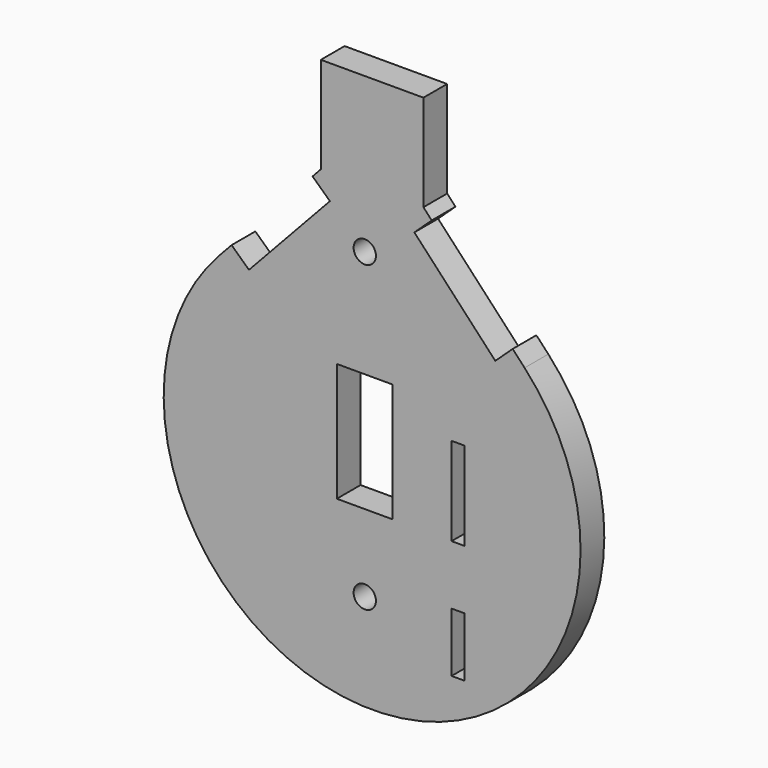
from build123d import *

# Parameters (mm, degrees)
F0_R     = 2.3876
F0_W     = 11.9644477963
F0_H     = 25.4
F0_W_2   = 2.794
F0_H_2   = 12.7
F0_H_3   = 18.8976
F1_DEPTH = 3.175
F3_W     = 6.35
F3_H     = 25.4
F4_DEPTH = 5.08
F6_W     = 6.35
F6_H     = 25.4
F7_DEPTH = 5.08


with BuildPart() as f1:
    # F0 (on Front) → F1 (new body, symmetric)
    with BuildSketch(Plane.XZ):
        with BuildLine():
            Line((-9.4017383467, 23.2221963037), (-31.0533456504, 0))
            ThreePointArc((-31.0533456504, 0), (1.5738401562, -75.0292582617), (34.2010259628, 0))
            Line((34.2010259628, 0), (12.5494186591, 23.2221963037))
            Line((12.5494186591, 23.2221963037), (12.5494186591, 43.8596963037))
            Line((12.5494186591, 43.8596963037), (-9.4017383467, 43.8596963037))
            Line((-9.4017383467, 43.8596963037), (-9.4017383467, 23.2221963037))
        make_face()
        with Locations((0, -54.2525947094)):
            Circle(F0_R, mode=Mode.SUBTRACT)
        with Locations((0, -25.0313151628)):
            Rectangle(F0_W, F0_H, mode=Mode.SUBTRACT)
        with Locations((19.9750838982, -56.7813151628)):
            Rectangle(F0_W_2, F0_H_2, mode=Mode.SUBTRACT)
        with Locations((19.9750838982, -28.2825151628)):
            Rectangle(F0_W_2, F0_H_3, mode=Mode.SUBTRACT)
        with Locations((0, 10.739565827)):
            Circle(F0_R, mode=Mode.SUBTRACT)
    extrude(amount=F1_DEPTH, both=True)

    # F3 (on offset) → F4 (cut)
    with BuildSketch(Plane(origin=(-16.6122141895, 0, 15.4886787354), x_dir=(0, -1, 0), z_dir=(-0.7314077576, 0, 0.6819403875))):
        with Locations((0, -4.733831039)):
            Rectangle(F3_W, F3_H)
    extrude(amount=-F4_DEPTH, mode=Mode.SUBTRACT)

    # F6 (on offset) → F7 (cut)
    with BuildSketch(Plane(origin=(18.2960887755, 0, 17.0586676721), x_dir=(0, 1, 0), z_dir=(0.7314077576, 0, 0.6819403875))):
        with Locations((0, -6.8803708986)):
            Rectangle(F6_W, F6_H)
    extrude(amount=-F7_DEPTH, mode=Mode.SUBTRACT)


solid = f1.part
